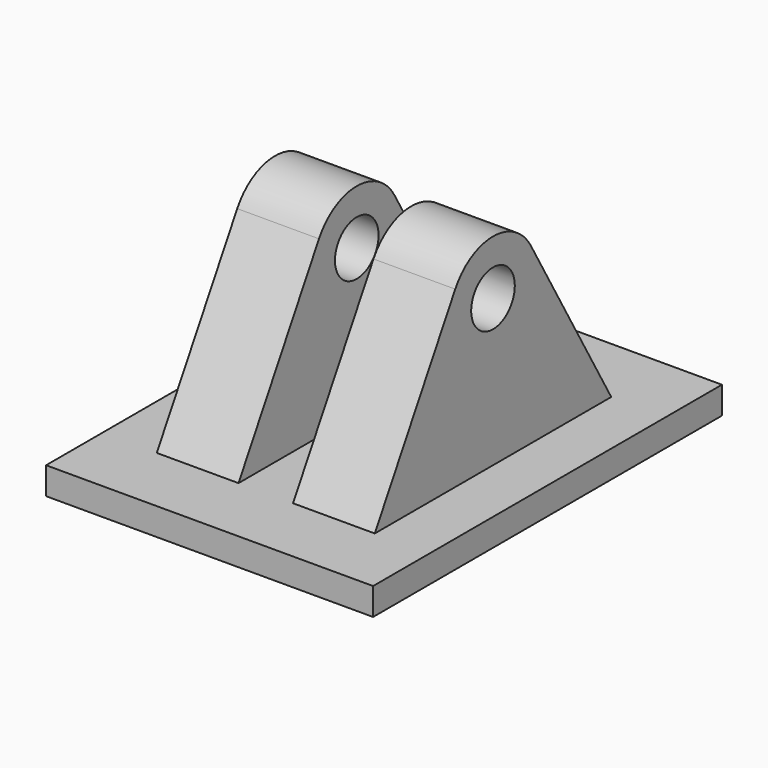
from build123d import *

# Parameters (mm, degrees)
F0_R     = 0.25
F1_DEPTH = 1
F2_W     = 0.5
F2_H     = 2.608739
F3_DEPTH = 12.5
F4_W     = 3
F4_H     = 4
F5_DEPTH = 0.25


with BuildPart() as f1:
    # F0 (on Right) → F1 (new body, symmetric)
    with BuildSketch(Plane.YZ):
        with BuildLine():
            Line((-0.433013, 1.848076), (-1.5, 0))
            Line((-1.5, 0), (1.5, 0))
            Line((1.5, 0), (0.433013, 1.848076))
            ThreePointArc((0.433013, 1.848076), (0, 2.098076), (-0.433013, 1.848076))
        make_face()
        with Locations((0, 1.598076)):
            Circle(F0_R, mode=Mode.SUBTRACT)
    extrude(amount=F1_DEPTH, both=True)

    # F2 (on Front) → F3 (cut, symmetric)
    with BuildSketch(Plane.XZ):
        with Locations((0, 0.889582)):
            Rectangle(F2_W, F2_H)
    extrude(amount=F3_DEPTH, both=True, mode=Mode.SUBTRACT)

    # F4 (on Top) → F5 (join)
    with BuildSketch(Plane.XY):
        Rectangle(F4_W, F4_H)
    extrude(amount=F5_DEPTH)


solid = f1.part
